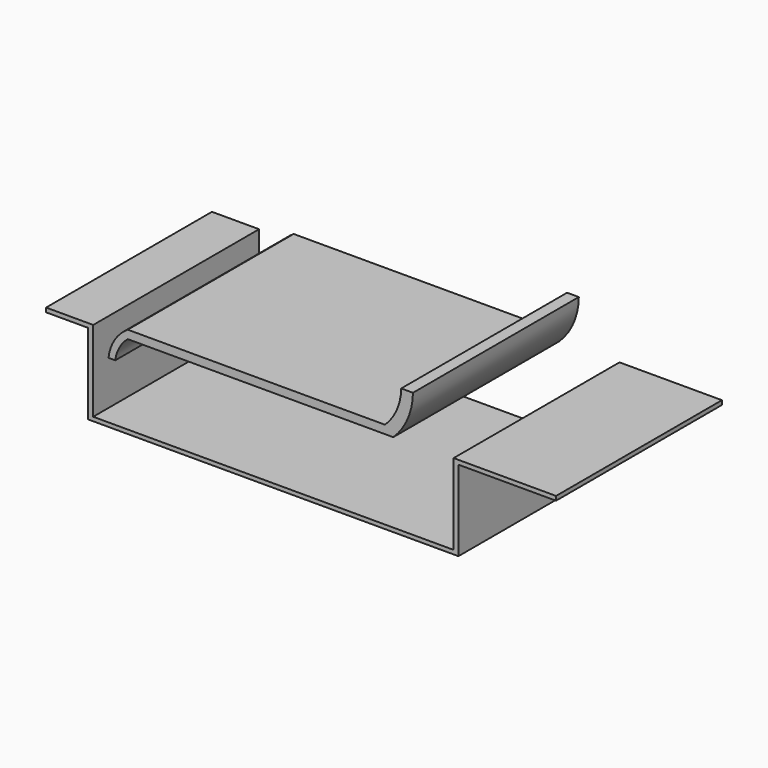
from build123d import *

# Parameters (mm, degrees)
F1_DEPTH = 25
F3_DEPTH = 25


with BuildPart() as f1:
    # F0 (on Front) → F1 (new body)
    with BuildSketch(Plane.XZ):
        with BuildLine():
            Line((-48.831397, 2.743745), (-16.818714, 2.743745))
            ThreePointArc((-16.818714, 2.743745), (-15.079293, 5.248647), (-14.443458, 8.231235))
            Line((-14.443458, 8.231235), (-15.857441, 8.231235))
            ThreePointArc((-15.857441, 8.231235), (-15.972396, 7.117568), (-16.282061, 6.04166))
            ThreePointArc((-16.282061, 6.04166), (-16.923208, 4.807655), (-17.818714, 3.743745))
            Line((-17.818714, 3.743745), (-45.881545, 3.743745))
            Line((-45.881545, 3.743745), (-46.252962, 3.743745))
            Line((-46.252962, 3.743745), (-48.831397, 3.743745))
            ThreePointArc((-48.831397, 3.743745), (-50.414769, 2.134332), (-51.150908, 0))
            Line((-51.150908, 0), (-50.337797, 0))
            ThreePointArc((-50.337797, 0), (-49.842666, 1.51356), (-48.831397, 2.743745))
        make_face()
    extrude(amount=F1_DEPTH)


with BuildPart() as f3:
    # F2 (on Front) → F3 (new body)
    with BuildSketch(Plane.XZ):
        Polygon((-52.995481, -6.852399), (-52.995481, 2.892593), (-58.678601, 2.892593), (-58.678601, 2.382948), (-53.61452, 2.382948), (-53.61452, -7.334751), (-8.959459, -7.334751), (-8.959459, 2.382948), (2.812417, 2.382948), (2.812417, 2.892593), (-9.539651, 2.892593), (-9.539651, -6.852399), align=None)
    extrude(amount=F3_DEPTH)


solid = Compound([f1.part, f3.part])
